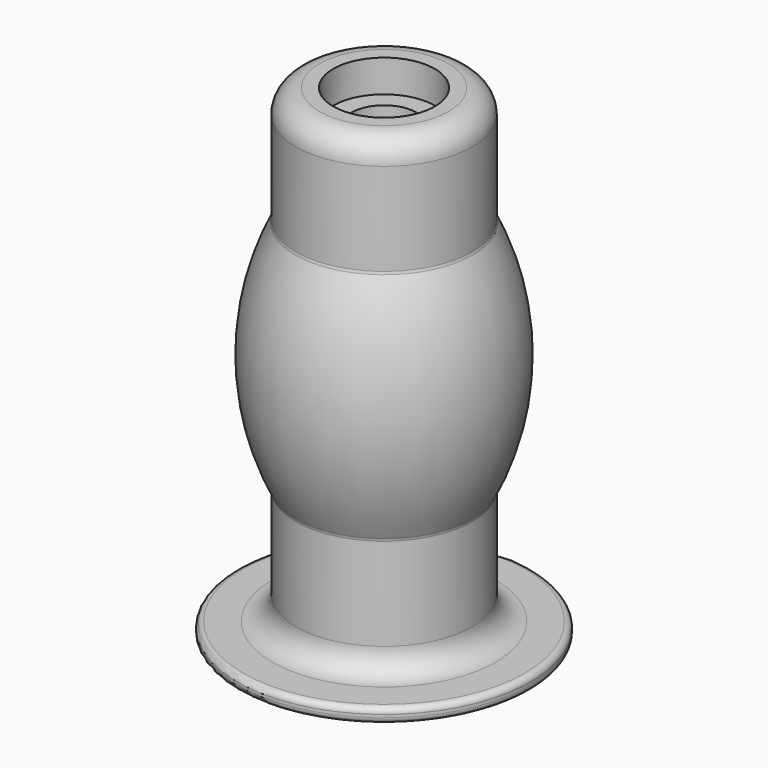
from build123d import *

# Parameters (mm, degrees)
F2_R = 5.08
F3_R = 1.27


with BuildPart() as f1:
    # F0 (on Front) → F1 (revolve)
    with BuildSketch(Plane.XZ):
        with BuildLine():
            Line((-11, 7), (-7, 7))
            Line((-7, 7), (-7, 97.775))
            Line((-7, 97.775), (-11, 97.775))
            Line((-11, 97.775), (-11, 104.775))
            Line((-11, 104.775), (-19.05, 104.775))
            Line((-19.05, 104.775), (-19.05, 79.375))
            ThreePointArc((-19.05, 79.375), (-25.126937, 53.975), (-19.05, 28.575))
            Line((-19.05, 28.575), (-19.05, 3.175))
            Line((-19.05, 3.175), (-31.75, 3.175))
            Line((-31.75, 3.175), (-31.75, 0))
            Line((-31.75, 0), (-11, 0))
            Line((-11, 0), (-11, 7))
        make_face()
    revolve(axis=Axis((0, 0, 52.3875), (0, 0, -1)))

    # F2
    f2_edges = [f1.edges().sort_by_distance(p)[0] for p in [
        (19.05, 0, 104.775),
        (19.05, 0, 3.175),
    ]]
    fillet(f2_edges, radius=F2_R)

    # F3
    f3_edges = [f1.edges().sort_by_distance(p)[0] for p in [
        (31.75, 0, 3.175),
        (31.75, 0, 0),
        (19.05, 0, 28.575),
        (19.05, 0, 79.375),
    ]]
    fillet(f3_edges, radius=F3_R)


solid = f1.part
